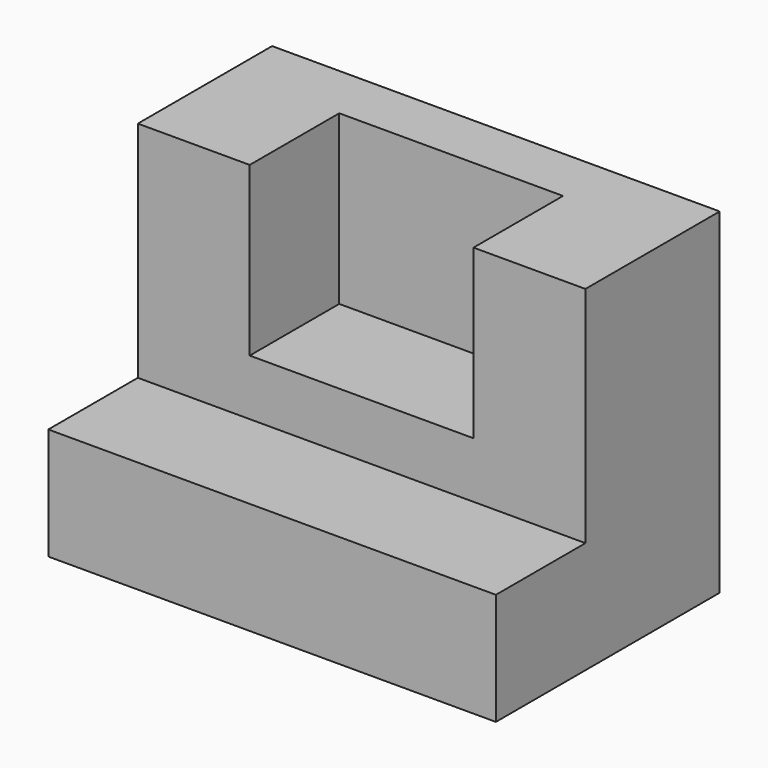
from build123d import *

# Parameters (mm, degrees)
F0_W     = 203.2
F0_H     = 50.8
F1_DEPTH = 127
F2_W     = 50.8
F2_H     = 76.2
F3_DEPTH = 101.6
F4_W     = 50.8
F4_H     = 76.2
F5_DEPTH = 101.6
F6_W     = 101.6
F6_H     = 50.8
F7_DEPTH = 25.4
F8_W     = 101.6
F8_H     = 25.4
F9_DEPTH = 101.6


with BuildPart() as f1:
    # F0 (on Front) → F1 (new body)
    with BuildSketch(Plane.XZ):
        with Locations((0.721672, -31.288108)):
            Rectangle(F0_W, F0_H)
    extrude(amount=F1_DEPTH)

    # F2 (on face) → F3 (join)
    with BuildSketch(Plane.XY.offset(-5.888108)):
        with Locations((-75.478328, -38.1)):
            Rectangle(F2_W, F2_H)
    extrude(amount=F3_DEPTH)

    # F4 (on face) → F5 (join)
    with BuildSketch(Plane.XY.offset(-5.888108)):
        with Locations((76.921672, -38.1)):
            Rectangle(F4_W, F4_H)
    extrude(amount=F5_DEPTH)

    # F6 (on face) → F7 (join)
    with BuildSketch(Plane.XY.offset(-5.888108)):
        with Locations((0.721672, -50.8)):
            Rectangle(F6_W, F6_H)
    extrude(amount=F7_DEPTH)

    # F8 (on face) → F9 (join)
    with BuildSketch(Plane.XY.offset(-5.888108)):
        with Locations((0.721672, -12.7)):
            Rectangle(F8_W, F8_H)
    extrude(amount=F9_DEPTH)


solid = f1.part
